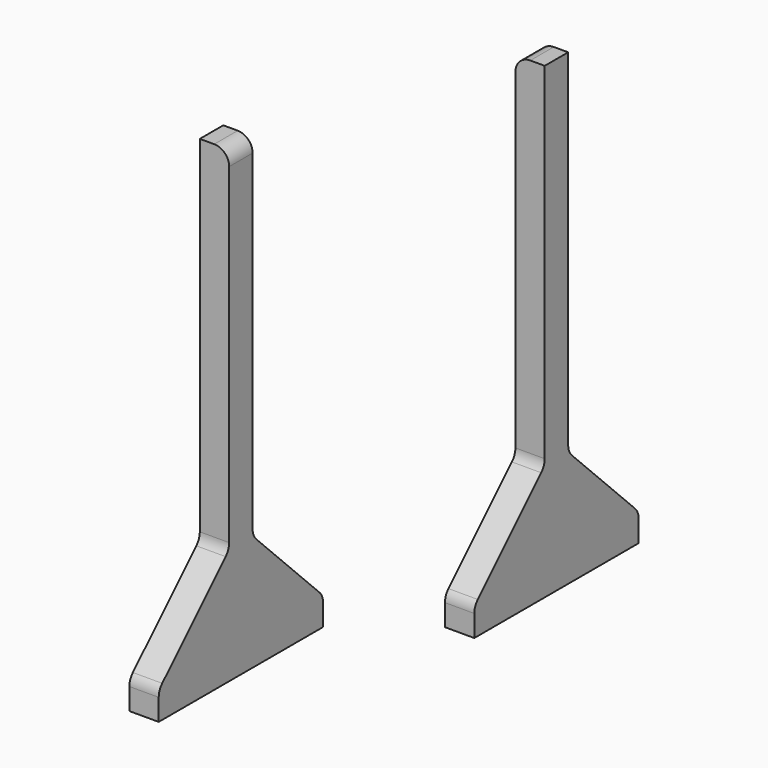
from build123d import *

# Parameters (mm, degrees)
F1_DEPTH = 10
F2_DEPTH = 10
F3_R     = 5.08
F4_R     = 5.08
F5_R     = 5.08
F6_R     = 5.08
F7_R     = 5.08
F8_R     = 5.08
F9_R     = 5.08
F10_R    = 5.08
F11_R    = 5.08
F12_R    = 5.08


with BuildPart() as f1:
    # F0 (on Right) → F1 (new body)
    with BuildSketch(Plane.YZ):
        Polygon((5.439054, 141.632784), (-4.560946, 141.632784), (-4.560946, 21.632784), (-4.560946, -8.367216), (5.439054, -8.367216), (5.439054, 21.632784), align=None)
        Polygon((-4.560946, -8.367216), (-4.560946, 21.632784), (-34.560946, -8.367216), align=None)
        Polygon((35.439054, -8.367216), (5.439054, 21.632784), (5.439054, -8.367216), align=None)
        Polygon((5.439054, -8.367216), (-4.560946, -8.367216), (-34.560946, -8.367216), (-34.560946, -17.854397), (35.439054, -17.854397), (35.439054, -8.367216), align=None)
    extrude(amount=F1_DEPTH)

    # F3
    f3_edges = [f1.edges().sort_by_distance(p)[0] for p in [
        (10, 0.439054, 141.632784),
    ]]
    fillet(f3_edges, radius=F3_R)

    # F7
    f7_edges = [f1.edges().sort_by_distance(p)[0] for p in [
        (5, -34.560946, -8.367216),
    ]]
    fillet(f7_edges, radius=F7_R)

    # F8
    f8_edges = [f1.edges().sort_by_distance(p)[0] for p in [
        (5, 35.439054, -8.367216),
    ]]
    fillet(f8_edges, radius=F8_R)

    # F11
    f11_edges = [f1.edges().sort_by_distance(p)[0] for p in [
        (5, -4.560946, 21.632784),
    ]]
    fillet(f11_edges, radius=F11_R)

    # F12
    f12_edges = [f1.edges().sort_by_distance(p)[0] for p in [
        (5, 5.439054, 21.632784),
    ]]
    fillet(f12_edges, radius=F12_R)


with BuildPart() as f2:
    # F0 (on Right) → F2 (new body)
    with BuildSketch(Plane.YZ):
        Polygon((139.882346, 112.145212), (129.882346, 112.145212), (129.882346, -7.854788), (129.882346, -37.854788), (139.882346, -37.854788), (139.882346, -7.854788), align=None)
        Polygon((129.882346, -37.854788), (129.882346, -7.854788), (99.882346, -37.854788), align=None)
        Polygon((169.882346, -37.854788), (139.882346, -7.854788), (139.882346, -37.854788), align=None)
        Polygon((139.882346, -37.854788), (129.882346, -37.854788), (99.882346, -37.854788), (99.882346, -47.341969), (169.882346, -47.341969), (169.882346, -37.854788), align=None)
    extrude(amount=F2_DEPTH)

    # F4
    f4_edges = [f2.edges().sort_by_distance(p)[0] for p in [
        (0, 134.882346, 112.145212),
    ]]
    fillet(f4_edges, radius=F4_R)

    # F5
    f5_edges = [f2.edges().sort_by_distance(p)[0] for p in [
        (5, 169.882346, -37.854788),
    ]]
    fillet(f5_edges, radius=F5_R)

    # F6
    f6_edges = [f2.edges().sort_by_distance(p)[0] for p in [
        (5, 99.882346, -37.854788),
    ]]
    fillet(f6_edges, radius=F6_R)

    # F9
    f9_edges = [f2.edges().sort_by_distance(p)[0] for p in [
        (5, 139.882346, -7.854788),
    ]]
    fillet(f9_edges, radius=F9_R)

    # F10
    f10_edges = [f2.edges().sort_by_distance(p)[0] for p in [
        (5, 129.882346, -7.854788),
    ]]
    fillet(f10_edges, radius=F10_R)


solid = Compound([f1.part, f2.part])
